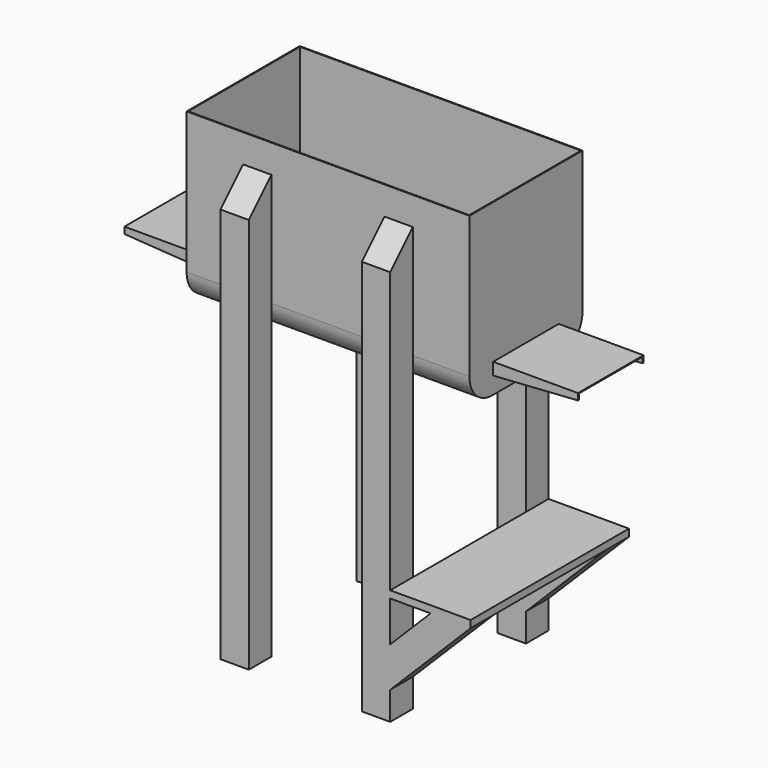
from build123d import *

# Parameters (mm, degrees)
F1_DEPTH  = 1000
F2_T      = -3
F3_W      = 300
F3_H      = 3
F4_DEPTH  = 300
F6_DEPTH  = 5
F8_DEPTH  = 5
F9_W      = 100
F9_H      = 1500
F10_DEPTH = 100
F12_DEPTH = 800.001
F13_W     = 100
F13_H     = 1500
F14_DEPTH = 100
F16_DEPTH = 1100.001
F17_W     = 290
F17_H     = 3
F18_DEPTH = 300
F20_DEPTH = 5
F22_DEPTH = 5
F24_DEPTH = 100
F26_DEPTH = 100
F28_DEPTH = 744.22
F29_W     = 284.3456985965
F29_H     = 700
F30_DEPTH = 25.4


with BuildPart() as f1:
    # F0 (on Right) → F1 (new body)
    with BuildSketch(Plane.YZ):
        with BuildLine():
            Line((250, 100), (250, 600))
            Line((250, 600), (-250, 600))
            Line((-250, 600), (-250, 100))
            ThreePointArc((-250, 100), (-220.7106781187, 29.2893218813), (-150, 0))
            Line((-150, 0), (150, 0))
            ThreePointArc((150, 0), (220.7106781187, 29.2893218813), (250, 100))
        make_face()
    extrude(amount=F1_DEPTH)

    # F2
    f2_openings = [f1.faces().sort_by_distance(p)[0] for p in [
        (500, 0, 600),
    ]]
    offset(amount=F2_T, openings=f2_openings)

    # F3 (on face) → F4 (join)
    with BuildSketch(Plane(origin=(0, 0, 0), x_dir=(0, -1, 0), z_dir=(-1, 0, 0))):
        with Locations((0, 101.5)):
            Rectangle(F3_W, F3_H)
    extrude(amount=F4_DEPTH)

    # F5 (on face) → F6 (join)
    with BuildSketch(Plane.XZ.offset(150)):
        Polygon((0, 100), (-300, 100), (-300, 80), (0, 60), align=None)
    extrude(amount=-F6_DEPTH)

    # F7 (on face) → F8 (join)
    with BuildSketch(Plane(origin=(0, 150, 0), x_dir=(-1, 0, 0), z_dir=(0, 1, 0))):
        Polygon((300, 100), (0, 100), (0, 60), (300, 80), align=None)
    extrude(amount=-F8_DEPTH)

    # F9 (on face) → F10 (join)
    with BuildSketch(Plane.XZ.offset(250)):
        with Locations((250, -250)):
            Rectangle(F9_W, F9_H)
        with Locations((750, -250)):
            Rectangle(F9_W, F9_H)
    extrude(amount=F10_DEPTH)

    # F11 (on face) → F12 (cut, through all)
    with BuildSketch(Plane(origin=(200, 0, 0), x_dir=(0, -1, 0), z_dir=(-1, 0, 0))):
        Polygon((350, 500), (250, 500), (350, 400), align=None)
    extrude(amount=-F12_DEPTH, mode=Mode.SUBTRACT)

    # F13 (on face) → F14 (join)
    with BuildSketch(Plane(origin=(0, 250, 0), x_dir=(-1, 0, 0), z_dir=(0, 1, 0))):
        with Locations((-750, -250)):
            Rectangle(F13_W, F13_H)
        with Locations((-250, -250)):
            Rectangle(F13_W, F13_H)
    extrude(amount=F14_DEPTH)

    # F15 (on face) → F16 (cut, through all)
    with BuildSketch(Plane.YZ.offset(800)):
        Polygon((350, 500), (250, 500), (350, 400), align=None)
    extrude(amount=-F16_DEPTH, mode=Mode.SUBTRACT)

    # F17 (on face) → F18 (join)
    with BuildSketch(Plane.YZ.offset(1000)):
        with Locations((0, 101.5)):
            Rectangle(F17_W, F17_H)
    extrude(amount=F18_DEPTH)

    # F19 (on face) → F20 (join)
    with BuildSketch(Plane.XZ.offset(145)):
        Polygon((1300, 100), (1000, 100), (1000, 60), (1300, 80), align=None)
    extrude(amount=-F20_DEPTH)

    # F21 (on face) → F22 (join)
    with BuildSketch(Plane(origin=(0, 145, 0), x_dir=(-1, 0, 0), z_dir=(0, 1, 0))):
        Polygon((-1000, 100), (-1300, 100), (-1300, 80), (-1000, 60.6447160244), align=None)
    extrude(amount=-F22_DEPTH)

    # F23 (on face) → F24 (join, through all)
    with BuildSketch(Plane.XZ.offset(350)):
        Polygon((800, -758.5786437627), (800, -900), (1084.3456985965, -615.6543014035), (1013.6350204779, -544.9436232848), align=None)
    extrude(amount=-F24_DEPTH)

    # F25 (on face) → F26 (join)
    with BuildSketch(Plane(origin=(0, 350, 0), x_dir=(-1, 0, 0), z_dir=(0, 1, 0))):
        Polygon((-1084.3456985965, -615.6543014035), (-800, -900), (-800, -758.5786437627), (-1013.6350204779, -544.9436232848), align=None)
    extrude(amount=-F26_DEPTH)

    # F27 (on face) → F28 (cut)
    with BuildSketch(Plane.XZ.offset(350)):
        Polygon((942.9243423592, -615.6543014035), (1084.3456985965, -615.6543014035), (1013.6350204779, -544.9436232848), align=None)
    extrude(amount=-F28_DEPTH, mode=Mode.SUBTRACT)

    # F29 (on face) → F30 (join)
    with BuildSketch(Plane.XY.offset(-615.6543014035)):
        with Locations((942.1728492983, 0)):
            Rectangle(F29_W, F29_H)
    extrude(amount=F30_DEPTH)


solid = f1.part
